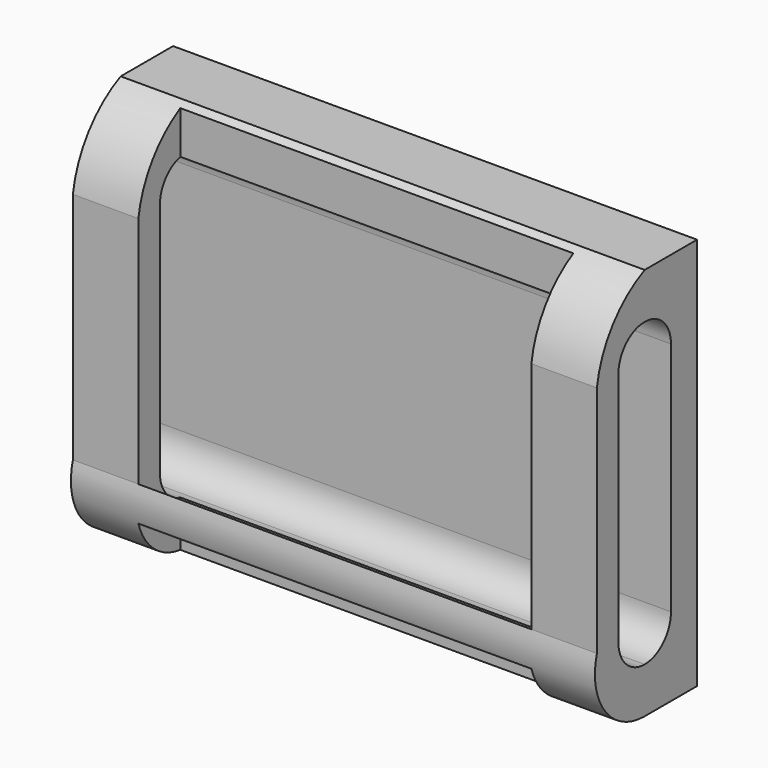
from build123d import *

# Parameters (mm, degrees)
F0_W     = 50.8
F0_H     = 38.1
F1_DEPTH = 6.35
F3_DEPTH = 50.8
F5_DEPTH = 101.6
F6_W     = 38.1
F6_H     = 22.6706631617
F6_H_2   = 10.8896684192
F7_DEPTH = 5.08


with BuildPart() as f1:
    # F0 (on Front) → F1 (new body)
    with BuildSketch(Plane.XZ):
        Rectangle(F0_W, F0_H)
    extrude(amount=F1_DEPTH)

    # F2 (on face) → F3 (join)
    with BuildSketch(Plane(origin=(-25.4, 0, 0), x_dir=(0, -1, 0), z_dir=(-1, 0, 0))):
        with BuildLine():
            ThreePointArc((6.35, 14.6177), (8.6040442864, 13.6840442864), (9.5377, 11.43))
            ThreePointArc((9.5377, 11.43), (8.6040442864, 9.1759557136), (6.35, 8.2423))
            Line((6.35, 8.2423), (6.35, -8.2423))
            ThreePointArc((6.35, -8.2423), (8.6040442864, -9.1759557136), (9.5377, -11.43))
            ThreePointArc((9.5377, -11.43), (8.6040442864, -13.6840442864), (6.35, -14.6177))
            Line((6.35, -14.6177), (6.35, -19.05))
            ThreePointArc((6.35, -19.05), (11.173439943, -16.6397561834), (12.1419066563, -11.3353315808))
            Line((12.1419066563, -11.3353315808), (12.1419066563, 11.3353315808))
            ThreePointArc((12.1419066563, 11.3353315808), (10.2292171372, 15.9308663055), (6.35, 19.05))
            Line((6.35, 19.05), (6.35, 14.6177))
        make_face()
    extrude(amount=-F3_DEPTH)

    # F4 (on face) → F5 (cut)
    with BuildSketch(Plane(origin=(-25.4, 0, 0), x_dir=(0, -1, 0), z_dir=(-1, 0, 0))):
        with BuildLine():
            Line((6.35, 8.2423), (6.35, 14.6177))
            ThreePointArc((6.35, 14.6177), (4.0959557136, 13.6840442864), (3.1623, 11.43))
            ThreePointArc((3.1623, 11.43), (4.0959557136, 9.1759557136), (6.35, 8.2423))
        make_face()
        with BuildLine():
            ThreePointArc((6.35, 8.2423), (8.6040442864, 9.1759557136), (9.5377, 11.43))
            ThreePointArc((9.5377, 11.43), (8.6040442864, 13.6840442864), (6.35, 14.6177))
            Line((6.35, 14.6177), (6.35, 8.2423))
        make_face()
        with BuildLine():
            Line((6.35, -14.6177), (6.35, -8.2423))
            ThreePointArc((6.35, -8.2423), (4.0959557136, -9.1759557136), (3.1623, -11.43))
            ThreePointArc((3.1623, -11.43), (4.0959557136, -13.6840442864), (6.35, -14.6177))
        make_face()
        with BuildLine():
            ThreePointArc((6.35, -14.6177), (8.6040442864, -13.6840442864), (9.5377, -11.43))
            ThreePointArc((9.5377, -11.43), (8.6040442864, -9.1759557136), (6.35, -8.2423))
            Line((6.35, -8.2423), (6.35, -14.6177))
        make_face()
        with BuildLine():
            Line((9.5377, -11.43), (9.5377, 11.43))
            ThreePointArc((9.5377, 11.43), (8.6040442864, 9.1759557136), (6.35, 8.2423))
            ThreePointArc((6.35, 8.2423), (4.0959557136, 9.1759557136), (3.1623, 11.43))
            Line((3.1623, 11.43), (3.1623, -11.43))
            ThreePointArc((3.1623, -11.43), (4.0959557136, -9.1759557136), (6.35, -8.2423))
            ThreePointArc((6.35, -8.2423), (8.6040442864, -9.1759557136), (9.5377, -11.43))
        make_face()
        with BuildLine():
            Line((9.5377, -11.43), (9.5377, 11.43))
            ThreePointArc((9.5377, 11.43), (8.6040442864, 9.1759557136), (6.35, 8.2423))
            ThreePointArc((6.35, 8.2423), (4.0959557136, 9.1759557136), (3.1623, 11.43))
            Line((3.1623, 11.43), (3.1623, -11.43))
            ThreePointArc((3.1623, -11.43), (4.0959557136, -9.1759557136), (6.35, -8.2423))
            ThreePointArc((6.35, -8.2423), (8.6040442864, -9.1759557136), (9.5377, -11.43))
        make_face()
    extrude(amount=-F5_DEPTH, mode=Mode.SUBTRACT)

    # F6 (on face) → F7 (cut)
    with BuildSketch(Plane.XZ.offset(12.1419066563)):
        Rectangle(F6_W, F6_H)
        with Locations((0, 16.7801657904)):
            Rectangle(F6_W, F6_H_2)
        with Locations((0, -16.7801657904)):
            Rectangle(F6_W, F6_H_2)
    extrude(amount=-F7_DEPTH, mode=Mode.SUBTRACT)


solid = f1.part
